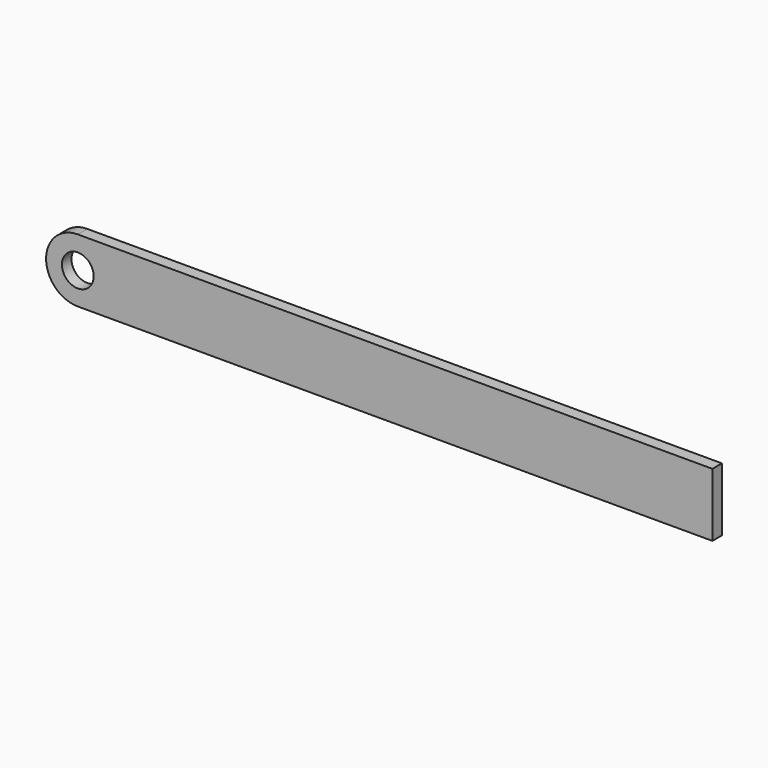
from build123d import *

# Parameters (mm, degrees)
F0_R     = 6.35
F1_DEPTH = 2.38125


with BuildPart() as f1:
    # F0 (on Front) → F1 (new body, symmetric)
    with BuildSketch(Plane.XZ):
        with BuildLine():
            ThreePointArc((-127, 12.7), (-139.7, 0), (-127, -12.7))
            Line((-127, -12.7), (127, -12.7))
            Line((127, -12.7), (127, 12.7))
            Line((127, 12.7), (-127, 12.7))
        make_face()
        with Locations((-127, 0)):
            Circle(F0_R, mode=Mode.SUBTRACT)
    extrude(amount=F1_DEPTH, both=True)


solid = f1.part
